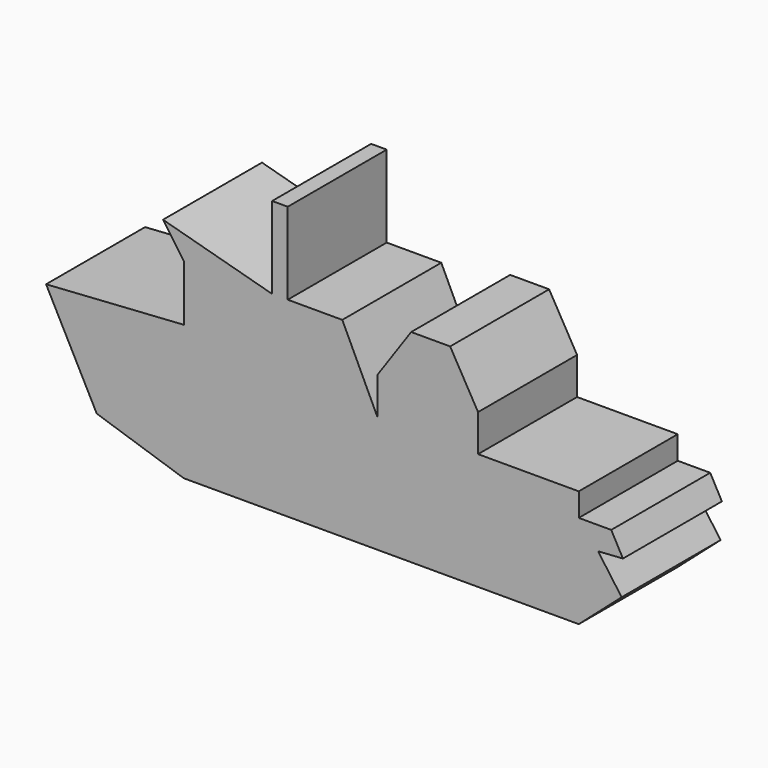
from build123d import *

# Parameters (mm, degrees)
F0_W     = 20.66925
F0_H     = 7.60095
F1_DEPTH = 25.4


with BuildPart() as f1:
    # F0 (on Front) → F1 (new body)
    with BuildSketch(Plane.XZ):
        Polygon((-32.537401, 12.932173), (-60.807601, 11.065273), (-50.4063, -8.937228), (-32.537401, -14.804627), (17.0688, -14.804627), (48.5394, -14.804627), (48.5394, 4.397773), (48.5394, 9.198373), (27.87015, 9.198373), (7.2009, 9.198373), (0, 24.400273), (-11.2014, 24.400273), (-11.2014, 41.202374), (-14.4018, 41.202374), (-14.4018, 24.400273), (-32.537401, 24.400273), align=None)
        Polygon((-36.804602, 30.534372), (-32.537401, 24.400273), (-14.4018, 24.400273), align=None)
        Polygon((48.5394, 4.397773), (48.5394, -14.804627), (57.340499, -7.070328), (52.500348, -0.337245), (57.6072, 0), (55.206902, 4.397773), align=None)
        with Locations((17.535525, 12.998848)):
            Rectangle(F0_W, F0_H)
        Polygon((7.2009, 16.799323), (27.87015, 16.799323), (22.136101, 26.800573), (14.135102, 26.800573), align=None)
    extrude(amount=F1_DEPTH)


solid = f1.part
